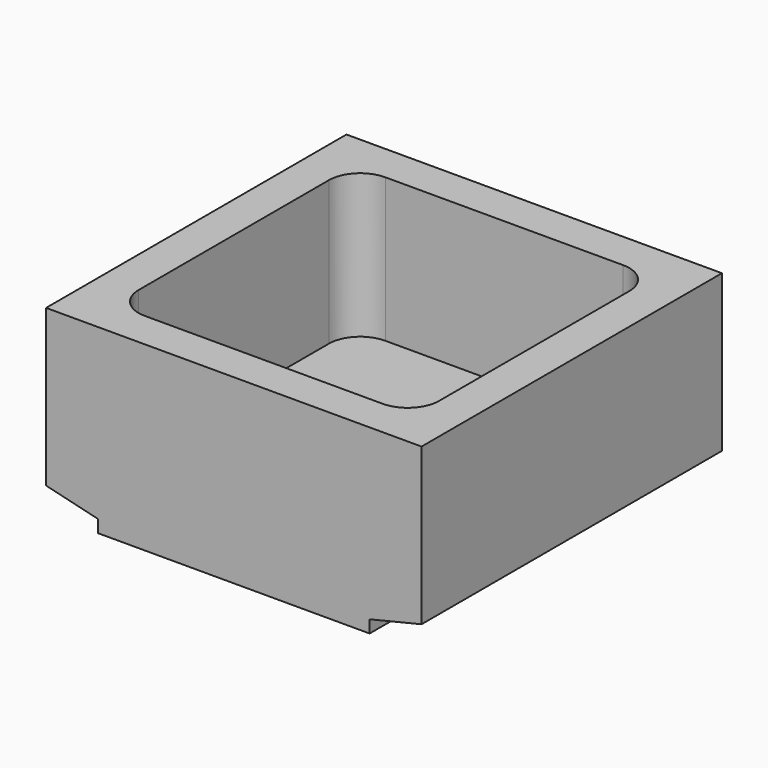
from build123d import *

# Parameters (mm, degrees)
F0_W     = 76.2
F0_H     = 76.2
F1_DEPTH = 36.83
F3_DEPTH = 76.201
F5_DEPTH = 29.21
F6_SCALE = 0.6666


with BuildPart() as f1:
    # F0 (on Top) → F1 (new body)
    with BuildSketch(Plane.XY):
        Rectangle(F0_W, F0_H)
    extrude(amount=-F1_DEPTH)

    # F2 (on face) → F3 (cut, through all)
    with BuildSketch(Plane.XZ.offset(38.1)):
        Polygon((27.559, -34.29), (27.559, -36.83), (38.1, -36.83), (38.1, -31.75), align=None)
        Polygon((-38.1, -36.83), (-27.559, -36.83), (-27.559, -34.29), (-38.1, -31.75), align=None)
    extrude(amount=-F3_DEPTH, mode=Mode.SUBTRACT)

    # F4 (on face) → F5 (cut)
    with BuildSketch(Plane.XY):
        with BuildLine():
            ThreePointArc((30.48, 24.13), (28.6201280605, 28.6201280605), (24.13, 30.48))
            Line((24.13, 30.48), (-24.13, 30.48))
            ThreePointArc((-24.13, 30.48), (-28.6201280605, 28.6201280605), (-30.48, 24.13))
            Line((-30.48, 24.13), (-30.48, -24.13))
            ThreePointArc((-30.48, -24.13), (-28.6201280605, -28.6201280605), (-24.13, -30.48))
            Line((-24.13, -30.48), (24.13, -30.48))
            ThreePointArc((24.13, -30.48), (28.6201280605, -28.6201280605), (30.48, -24.13))
            Line((30.48, -24.13), (30.48, 24.13))
        make_face()
    extrude(amount=-F5_DEPTH, mode=Mode.SUBTRACT)


with BuildPart() as f1_1:
    # F6: moved
    add(f1.part.scale(F6_SCALE))


solid = f1_1.part
